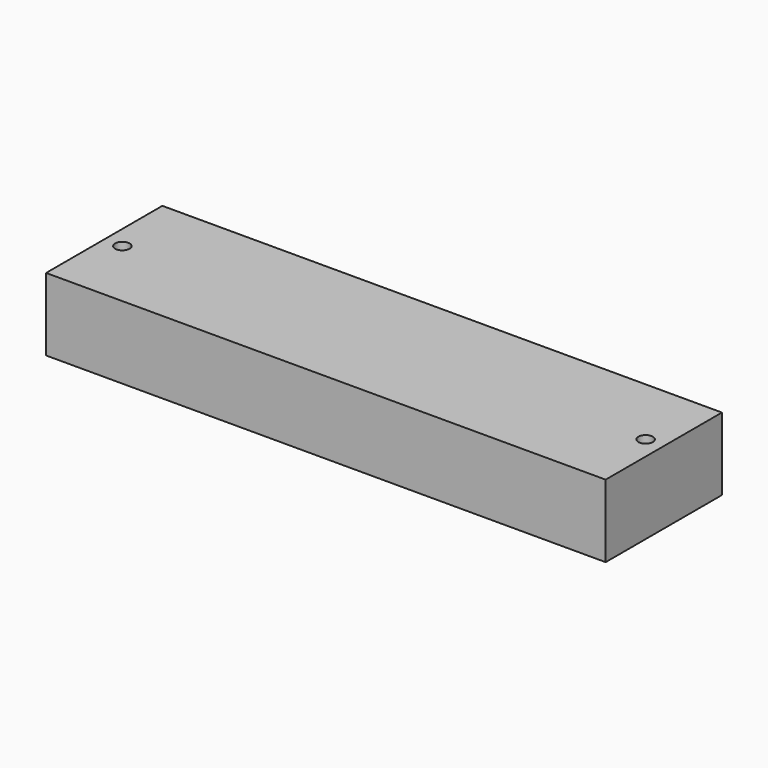
from build123d import *

# Parameters (mm, degrees)
F0_W     = 77
F0_H     = 20
F1_DEPTH = 10
F2_W     = 67
F2_H     = 16
F3_DEPTH = 8
F7_R     = 1
F8_DEPTH = 25


with BuildPart() as f1:
    # F0 (on Top) → F1 (new body)
    with BuildSketch(Plane.XY):
        Rectangle(F0_W, F0_H)
    extrude(amount=F1_DEPTH)

    # F2 (on face) → F3 (cut)
    with BuildSketch(Plane.XY.offset(10)):
        Rectangle(F2_W, F2_H)
    extrude(amount=-F3_DEPTH, mode=Mode.SUBTRACT)


with BuildPart() as f5_1:
    # F5: instance of F1
    add(f1.part.mirror(Plane.XY.offset(25)))

    # F7 (on face) → F8 (cut)
    with BuildSketch(Plane(origin=(0, 0, 40), x_dir=(1, 0, 0), z_dir=(0, 0, -1))):
        with Locations((36, 0)):
            Circle(F7_R)
        with Locations((-36, 0)):
            Circle(F7_R)
    extrude(amount=-F8_DEPTH, mode=Mode.SUBTRACT)


solid = f5_1.part
